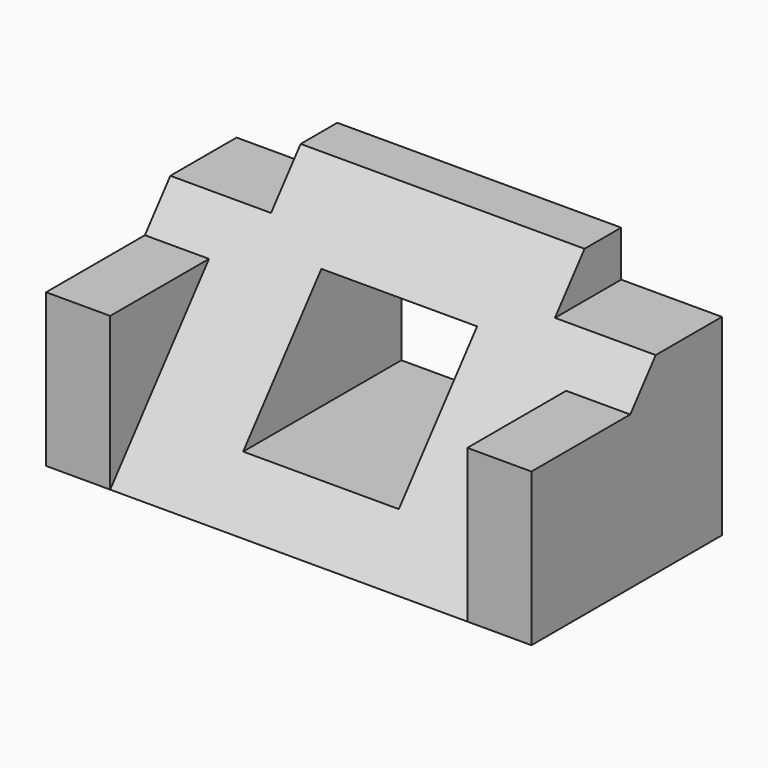
from build123d import *

# Parameters (mm, degrees)
PAD_DEPTH       = 26.5
SKETCH001_W     = 5
SKETCH001_H     = 11
POCKET_DEPTH    = 155.012627
SKETCH002_W     = 16.7
SKETCH002_H     = 7
PAD001_DEPTH    = 26
SKETCH004_W     = 13.225
SKETCH004_H     = 17
POCKET001_DEPTH = 26.001


with BuildPart() as part:
    # Sketch → Pad (new body, symmetric)
    with BuildSketch(Plane.YZ):
        Polygon((0, 0), (0, 26), (-5, 26), (-26, 0), align=None)
    extrude(amount=PAD_DEPTH, both=True)

    # Sketch001 (on Face1 of Pad) → Pocket (cut, through all)
    with BuildSketch(Plane.ZX):
        with Locations((23.5, 21)):
            Rectangle(SKETCH001_W, SKETCH001_H)
    pocket = extrude(amount=-POCKET_DEPTH, mode=Mode.SUBTRACT)

    # Mirrored: Pocket across Sketch001 H_Axis
    add(pocket.mirror(Plane.YZ), mode=Mode.SUBTRACT)

    # Sketch002 (on Face1 of Mirrored) → Pad001 (join)
    with BuildSketch(Plane.ZX):
        with Locations((8.35, 23)):
            Rectangle(SKETCH002_W, SKETCH002_H)
    pad001 = extrude(amount=-PAD001_DEPTH)

    # Mirrored001: Pad001 across Sketch002 H_Axis
    add(pad001.mirror(Plane.YZ))

    # Sketch004 (on Face15 of Mirrored001) → Pocket001 (cut, through all)
    with BuildSketch(Plane.ZX):
        with Locations((12.058088, 0)):
            Rectangle(SKETCH004_W, SKETCH004_H)
    extrude(amount=-POCKET001_DEPTH, mode=Mode.SUBTRACT)


solid = part.part
